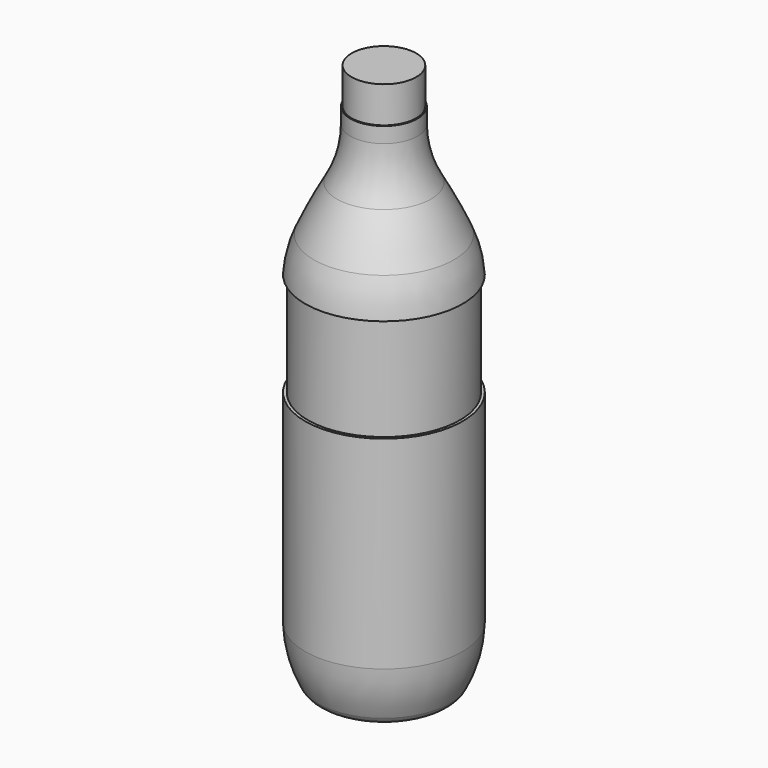
from build123d import *


with BuildPart() as f1:
    # F0 (on Front) → F1 (revolve)
    with BuildSketch(Plane.XZ):
        with BuildLine():
            Line((0, -1460.5), (0, 0))
            Line((0, 0), (-317.5, 0))
            Line((-317.5, 0), (-317.5, -355.6))
            Line((-317.5, -355.6), (-330.2, -355.6))
            Line((-330.2, -355.6), (-330.2, -508))
            ThreePointArc((-330.2, -508), (-363.815155, -767.183364), (-462.436252, -1009.216159))
            ThreePointArc((-462.436252, -1009.216159), (-581.580628, -1232.03377), (-689.498429, -1460.5))
            ThreePointArc((-689.498429, -1460.5), (-748.048452, -1633.440609), (-774.7, -1814.068))
            Line((-774.7, -1814.068), (-746.76, -1814.068))
            Line((-746.76, -1814.068), (-746.76, -2830.068))
            Line((-746.76, -2830.068), (-774.7, -2830.068))
            Line((-774.7, -2830.068), (-774.7, -4762.5))
            Line((-774.7, -4762.5), (-774.7, -4823.512261))
            ThreePointArc((-774.7, -4823.512261), (-739.48641, -5076.131931), (-649.129119, -5314.652903))
            ThreePointArc((-649.129119, -5314.652903), (-592.980259, -5375.149265), (-513.526192, -5397.5))
            ThreePointArc((-513.526192, -5397.5), (-460.520836, -5387.985242), (-414.134026, -5360.629032))
            ThreePointArc((-414.134026, -5360.629032), (-220.855649, -5246.644827), (0, -5207))
            Line((0, -5207), (0, -1460.5))
        make_face()
    revolve(axis=Axis((0, 0, -2698.75), (0, 0, -1)))


solid = f1.part
